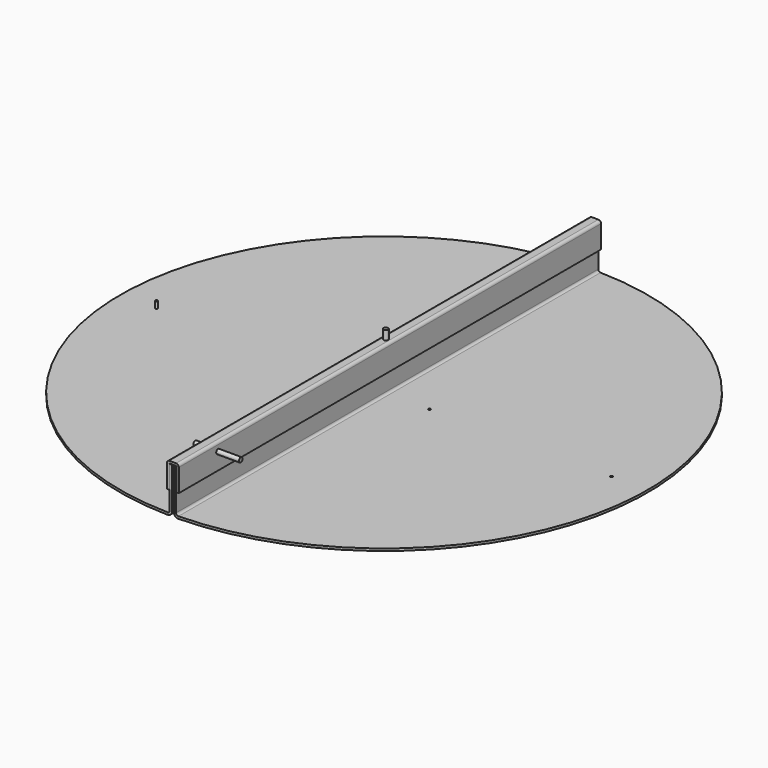
from build123d import *

# Parameters (mm, degrees)
F0_R      = 2.5
F1_DEPTH  = 5
F2_W      = 5
F2_H      = 90
F3_DEPTH  = 580
F1_FACE_W = 1160
F1_FACE_H = 5
F4_DEPTH  = 12
F5_DEPTH  = 580
F8_DEPTH  = 580
F9_DEPTH  = 20
F10_DEPTH = 20
F11_R     = 5
F12_DEPTH = 20
F13_R     = 5
F14_DEPTH = 50


with BuildPart() as f1:
    # F0 (on Top) → F1 (new body)
    with BuildSketch(Plane.XY):
        with Locations((-500, 0)):
            Circle(F0_R)
        with BuildLine():
            Line((0, 0), (0, 580))
            ThreePointArc((0, 580), (-580, 0), (0, -580))
            Line((0, -580), (0, 0))
        make_face()
        with Locations((-500, 0)):
            Circle(F0_R, mode=Mode.SUBTRACT)
        with BuildLine():
            ThreePointArc((-102.5, 0), (-100, 2.5), (-97.5, 0))
            ThreePointArc((-97.5, 0), (-100, -2.5), (-102.5, 0))
        make_face(mode=Mode.SUBTRACT)
    extrude(amount=F1_DEPTH)

    # F2 (on Front) → F3 (join, symmetric)
    with BuildSketch(Plane.XZ):
        with Locations((-4.5, 55)):
            Rectangle(F2_W, F2_H)
        with BuildLine():
            Line((-2, 10), (-7, 10))
            ThreePointArc((-7, 10), (-8.464466, 6.464466), (-12, 5))
            Line((-12, 5), (-12, 0))
            ThreePointArc((-12, 0), (-9.41181, 0.340742), (-7, 1.339746))
            ThreePointArc((-7, 1.339746), (-3.339746, 5), (-2, 10))
        make_face()
        with BuildLine():
            Line((-7, 0), (-7, 1.339746))
            ThreePointArc((-7, 1.339746), (-9.41181, 0.340742), (-12, 0))
            Line((-12, 0), (-7, 0))
        make_face()
    extrude(amount=F3_DEPTH, both=True)

    # F1_face (on face) → F4 (cut)
    with BuildSketch(Plane(origin=(0, 0, 2.5), x_dir=(0, 1, 0), z_dir=(1, 0, 0))):
        Rectangle(F1_FACE_W, F1_FACE_H)
    extrude(amount=-F4_DEPTH, mode=Mode.SUBTRACT)

    # F2 (on Front) → F5 (join, symmetric)
    with BuildSketch(Plane.XZ):
        with BuildLine():
            Line((-2, 10), (-7, 10))
            ThreePointArc((-7, 10), (-8.464466, 6.464466), (-12, 5))
            Line((-12, 5), (-12, 0))
            ThreePointArc((-12, 0), (-9.41181, 0.340742), (-7, 1.339746))
            ThreePointArc((-7, 1.339746), (-3.339746, 5), (-2, 10))
        make_face()
        with Locations((-4.5, 55)):
            Rectangle(F2_W, F2_H)
    extrude(amount=F5_DEPTH, both=True)



with BuildPart() as f6_1:
    # F6: instance of F1
    add(f1.part.mirror(Plane.YZ))


with BuildPart() as f8:
    # F7 (on Front) → F8 (new body, symmetric)
    with BuildSketch(Plane.XZ):
        with BuildLine():
            ThreePointArc((7, 101.007758), (7.707107, 100.714864), (8, 100.007758))
            Line((8, 100.007758), (8, 50.007758))
            Line((8, 50.007758), (13, 50.007758))
            Line((13, 50.007758), (13, 100.007758))
            ThreePointArc((13, 100.007758), (11.242641, 104.250398), (7, 106.007758))
            Line((7, 106.007758), (0, 106.007758))
            Line((0, 106.007758), (-7, 106.007758))
            ThreePointArc((-7, 106.007758), (-11.242641, 104.250398), (-13, 100.007758))
            Line((-13, 100.007758), (-13, 50.007758))
            Line((-13, 50.007758), (-8, 50.007758))
            Line((-8, 50.007758), (-8, 100.007758))
            ThreePointArc((-8, 100.007758), (-7.707107, 100.714864), (-7, 101.007758))
            Line((-7, 101.007758), (0, 101.007758))
            Line((0, 101.007758), (7, 101.007758))
        make_face()
    extrude(amount=F8_DEPTH, both=True)

    # F11 (on face) → F12 (join)
    with BuildSketch(Plane.XY.offset(106.007758)):
        with Locations((0, 5.109347)):
            Circle(F11_R)
    extrude(amount=F12_DEPTH)


with BuildPart() as f9:
    # F0 (on Top) → F9 (new body)
    with BuildSketch(Plane.XY):
        with Locations((-500, 0)):
            Circle(F0_R)
    extrude(amount=F9_DEPTH)


with BuildPart() as f10:
    # F0 (on Top) → F10 (new body)
    with BuildSketch(Plane.XY):
        with BuildLine():
            Line((-100, 0), (-97.5, 0))
            ThreePointArc((-97.5, 0), (-100, 2.5), (-102.5, 0))
            Line((-102.5, 0), (-100, 0))
        make_face()
        with BuildLine():
            ThreePointArc((-102.5, 0), (-100, -2.5), (-97.5, 0))
            Line((-97.5, 0), (-100, 0))
            Line((-100, 0), (-102.5, 0))
        make_face()
    extrude(amount=F10_DEPTH)


with BuildPart() as f1_1:
    add(f1.part)

    add(f6_1.part)  # F14 merges F6_1

    add(f8.part)  # F14 merges F8
    # F13 (on face) → F14 (join, symmetric)
    with BuildSketch(Plane.YZ.offset(13)):
        with Locations((-472.281009, 86.867474)):
            Circle(F13_R)
    extrude(amount=F14_DEPTH, both=True)


solid = Compound([f9.part, f10.part, f1_1.part])
